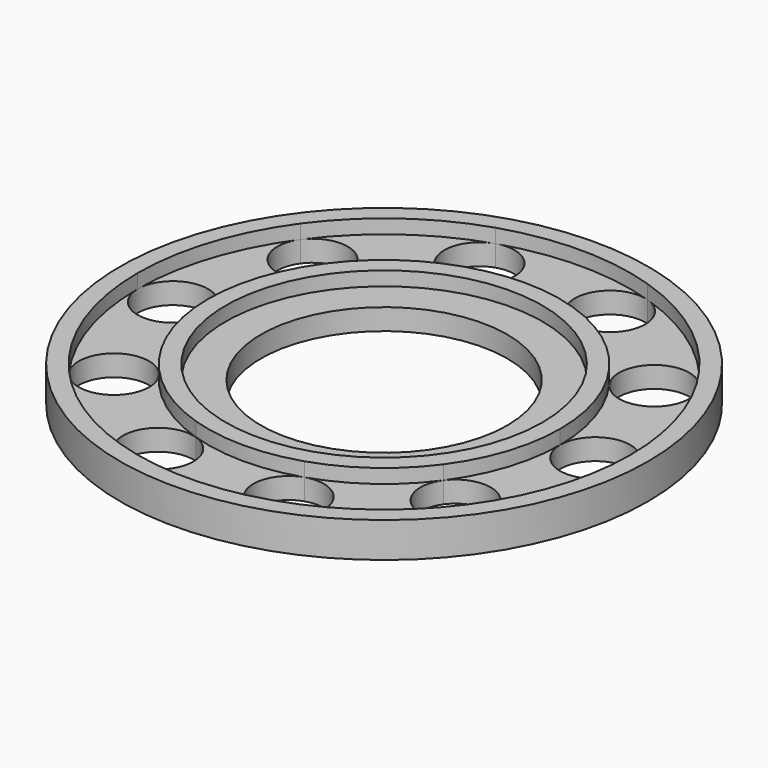
from build123d import *

# Parameters (mm, degrees)
F0_R     = 37.5
F0_R_2   = 22.5
F0_R_3   = 17.5
F1_DEPTH = 3
F2_DEPTH = 5


with BuildPart() as f1:
    # F0 (on Top) → F1 (new body)
    with BuildSketch(Plane.XY):
        Circle(F0_R)
        with BuildLine():
            ThreePointArc((28.3155948478, 20.5724837687), (33.2869780821, 10.8155947669), (35, 0))
            ThreePointArc((35, 0), (33.2869780821, -10.8155947669), (28.3155948478, -20.5724837687))
            ThreePointArc((28.3155948478, -20.5724837687), (20.5724838991, -28.3155947531), (10.8155948928, -33.2869780412))
            ThreePointArc((10.8155948928, -33.2869780412), (-9.47e-08, -35), (-10.8155950729, -33.2869779827))
            ThreePointArc((-10.8155950729, -33.2869779827), (-20.572483954, -28.3155947132), (-28.3155948162, -20.5724838122))
            ThreePointArc((-28.3155948162, -20.5724838122), (-33.2869780844, -10.8155947599), (-35, 6.87e-08))
            ThreePointArc((-35, 6.87e-08), (-33.286978055, 10.8155948504), (-28.3155947851, 20.572483855))
            ThreePointArc((-28.3155947851, 20.572483855), (-20.572483856, 28.3155947844), (-10.8155948928, 33.2869780412))
            ThreePointArc((-10.8155948928, 33.2869780412), (-5.37e-08, 35), (10.8155947907, 33.2869780744))
            ThreePointArc((10.8155947907, 33.2869780744), (20.5724838557, 28.3155947846), (28.3155948478, 20.5724837687))
        make_face(mode=Mode.SUBTRACT)
        with BuildLine():
            ThreePointArc((20.225424834, -14.6946313422), (23.7764129007, -7.7254248799), (25, 0))
            ThreePointArc((25, 0), (23.7764129114, 7.725424847), (20.2254248747, 14.6946312863))
            ThreePointArc((20.2254248747, 14.6946312863), (14.6946312563, 20.2254248964), (7.7254247148, 23.7764129544))
            ThreePointArc((7.7254247148, 23.7764129544), (-1.398e-07, 25), (-7.7254249808, 23.7764128679))
            ThreePointArc((-7.7254249808, 23.7764128679), (-14.6946313415, 20.2254248345), (-20.225424834, 14.6946313422))
            ThreePointArc((-20.225424834, 14.6946313422), (-23.7764129007, 7.7254248799), (-25, 0))
            ThreePointArc((-25, 0), (-23.7764129337, -7.7254247782), (-20.2254249597, -14.6946311693))
            ThreePointArc((-20.2254249597, -14.6946311693), (-14.694631428, -20.2254247717), (-7.7254249808, -23.7764128679))
            ThreePointArc((-7.7254249808, -23.7764128679), (1.09e-08, -25), (7.7254250015, -23.7764128612))
            ThreePointArc((7.7254250015, -23.7764128612), (14.6946313503, -20.2254248281), (20.225424834, -14.6946313422))
        make_face()
        Circle(F0_R_2, mode=Mode.SUBTRACT)
        Circle(F0_R_2)
        Circle(F0_R_3, mode=Mode.SUBTRACT)
        with BuildLine():
            ThreePointArc((10.8155948928, -33.2869780412), (4.5152272412, -30.0767804345), (7.7254250015, -23.7764128612))
            ThreePointArc((7.7254250015, -23.7764128612), (1.09e-08, -25), (-7.7254249808, -23.7764128679))
            ThreePointArc((-7.7254249808, -23.7764128679), (-5.2254248969, -25.5927691757), (-4.2705098312, -28.5316954889))
            ThreePointArc((-4.2705098312, -28.5316954889), (-6.3315836845, -32.5767805441), (-10.8155950729, -33.2869779827))
            ThreePointArc((-10.8155950729, -33.2869779827), (-9.47e-08, -35), (10.8155948928, -33.2869780412))
        make_face()
        with BuildLine():
            ThreePointArc((28.3155948478, -20.5724837687), (21.331583618, -21.6786425757), (20.225424834, -14.6946313422))
            ThreePointArc((20.225424834, -14.6946313422), (14.6946313503, -20.2254248281), (7.7254250015, -23.7764128612))
            ThreePointArc((7.7254250015, -23.7764128612), (12.2094361532, -24.4866105609), (14.2705098312, -28.5316954889))
            ThreePointArc((14.2705098312, -28.5316954889), (13.3155948308, -31.4706217122), (10.8155948928, -33.2869780412))
            ThreePointArc((10.8155948928, -33.2869780412), (20.5724838991, -28.3155947531), (28.3155948478, -20.5724837687))
        make_face()
        with BuildLine():
            ThreePointArc((35, 0), (30, -5), (25, 0))
            ThreePointArc((25, 0), (23.7764129007, -7.7254248799), (20.225424834, -14.6946313422))
            ThreePointArc((20.225424834, -14.6946313422), (25.8155947826, -12.8782749806), (29.2705098312, -17.6335575688))
            ThreePointArc((29.2705098312, -17.6335575688), (29.0257924245, -19.1786425045), (28.3155948478, -20.5724837687))
            ThreePointArc((28.3155948478, -20.5724837687), (33.2869780821, -10.8155947669), (35, 0))
        make_face()
        with BuildLine():
            ThreePointArc((20.2254248747, 14.6946312863), (23.7764129114, 7.725424847), (25, 0))
            ThreePointArc((25, 0), (30, 5), (35, 0))
            ThreePointArc((35, 0), (33.2869780821, 10.8155947669), (28.3155948478, 20.5724837687))
            ThreePointArc((28.3155948478, 20.5724837687), (29.0257924245, 19.1786425045), (29.2705098312, 17.6335575688))
            ThreePointArc((29.2705098312, 17.6335575688), (25.8155948155, 12.8782749913), (20.2254248747, 14.6946312863))
        make_face()
        with BuildLine():
            ThreePointArc((7.7254247148, 23.7764129544), (14.6946312563, 20.2254248964), (20.2254248747, 14.6946312863))
            ThreePointArc((20.2254248747, 14.6946312863), (21.33158359, 21.6786425554), (28.3155948478, 20.5724837687))
            ThreePointArc((28.3155948478, 20.5724837687), (20.5724838557, 28.3155947846), (10.8155947907, 33.2869780744))
            ThreePointArc((10.8155947907, 33.2869780744), (13.3155947993, 31.4706217556), (14.2705098312, 28.5316954889))
            ThreePointArc((14.2705098312, 28.5316954889), (12.2094360312, 24.4866104723), (7.7254247148, 23.7764129544))
        make_face()
        with BuildLine():
            ThreePointArc((-7.7254249808, 23.7764128679), (-1.398e-07, 25), (7.7254247148, 23.7764129544))
            ThreePointArc((7.7254247148, 23.7764129544), (4.5152272712, 30.0767805268), (10.8155947907, 33.2869780744))
            ThreePointArc((10.8155947907, 33.2869780744), (-5.37e-08, 35), (-10.8155948928, 33.2869780412))
            ThreePointArc((-10.8155948928, 33.2869780412), (-6.3315836079, 32.5767804884), (-4.2705098312, 28.5316954889))
            ThreePointArc((-4.2705098312, 28.5316954889), (-5.2254248969, 25.5927691758), (-7.7254249808, 23.7764128679))
        make_face()
        with BuildLine():
            ThreePointArc((-20.225424834, 14.6946313422), (-14.6946313415, 20.2254248345), (-7.7254249808, 23.7764128679))
            ThreePointArc((-7.7254249808, 23.7764128679), (-14.0257924179, 26.9866105329), (-10.8155948928, 33.2869780412))
            ThreePointArc((-10.8155948928, 33.2869780412), (-20.572483856, 28.3155947844), (-28.3155947851, 20.572483855))
            ThreePointArc((-28.3155947851, 20.572483855), (-22.7254248448, 22.3888401455), (-19.2705098312, 17.6335575688))
            ThreePointArc((-19.2705098312, 17.6335575688), (-19.5152272431, 16.0884726174), (-20.225424834, 14.6946313422))
        make_face()
        with BuildLine():
            ThreePointArc((-25, 0), (-23.7764129007, 7.7254248799), (-20.225424834, 14.6946313422))
            ThreePointArc((-20.225424834, 14.6946313422), (-27.2094360876, 13.5884725932), (-28.3155947851, 20.572483855))
            ThreePointArc((-28.3155947851, 20.572483855), (-33.286978055, 10.8155948504), (-35, 6.87e-08))
            ThreePointArc((-35, 6.87e-08), (-29.9999999656, 5), (-25, 0))
        make_face()
        with BuildLine():
            ThreePointArc((-10.8155950729, -33.2869779827), (-14.0257923886, -26.9866104428), (-7.7254249808, -23.7764128679))
            ThreePointArc((-7.7254249808, -23.7764128679), (-14.694631428, -20.2254247717), (-20.2254249597, -14.6946311693))
            ThreePointArc((-20.2254249597, -14.6946311693), (-19.5152272761, -16.0884725158), (-19.2705098312, -17.6335575688))
            ThreePointArc((-19.2705098312, -17.6335575688), (-22.72542487, -22.3888401537), (-28.3155948162, -20.5724838122))
            ThreePointArc((-28.3155948162, -20.5724838122), (-20.572483954, -28.3155947132), (-10.8155950729, -33.2869779827))
        make_face()
        with BuildLine():
            ThreePointArc((-28.3155948162, -20.5724838122), (-27.2094361527, -13.5884726405), (-20.2254249597, -14.6946311693))
            ThreePointArc((-20.2254249597, -14.6946311693), (-23.7764129337, -7.7254247782), (-25, 0))
            ThreePointArc((-25, 0), (-30.0000000344, -5), (-35, 6.87e-08))
            ThreePointArc((-35, 6.87e-08), (-33.2869780844, -10.8155947599), (-28.3155948162, -20.5724838122))
        make_face()
    extrude(amount=F1_DEPTH)

    # F0 (on Top) → F2 (join)
    with BuildSketch(Plane.XY):
        Circle(F0_R)
        with BuildLine():
            ThreePointArc((28.3155948478, 20.5724837687), (33.2869780821, 10.8155947669), (35, 0))
            ThreePointArc((35, 0), (33.2869780821, -10.8155947669), (28.3155948478, -20.5724837687))
            ThreePointArc((28.3155948478, -20.5724837687), (20.5724838991, -28.3155947531), (10.8155948928, -33.2869780412))
            ThreePointArc((10.8155948928, -33.2869780412), (-9.47e-08, -35), (-10.8155950729, -33.2869779827))
            ThreePointArc((-10.8155950729, -33.2869779827), (-20.572483954, -28.3155947132), (-28.3155948162, -20.5724838122))
            ThreePointArc((-28.3155948162, -20.5724838122), (-33.2869780844, -10.8155947599), (-35, 6.87e-08))
            ThreePointArc((-35, 6.87e-08), (-33.286978055, 10.8155948504), (-28.3155947851, 20.572483855))
            ThreePointArc((-28.3155947851, 20.572483855), (-20.572483856, 28.3155947844), (-10.8155948928, 33.2869780412))
            ThreePointArc((-10.8155948928, 33.2869780412), (-5.37e-08, 35), (10.8155947907, 33.2869780744))
            ThreePointArc((10.8155947907, 33.2869780744), (20.5724838557, 28.3155947846), (28.3155948478, 20.5724837687))
        make_face(mode=Mode.SUBTRACT)
        with BuildLine():
            ThreePointArc((20.225424834, -14.6946313422), (23.7764129007, -7.7254248799), (25, 0))
            ThreePointArc((25, 0), (23.7764129114, 7.725424847), (20.2254248747, 14.6946312863))
            ThreePointArc((20.2254248747, 14.6946312863), (14.6946312563, 20.2254248964), (7.7254247148, 23.7764129544))
            ThreePointArc((7.7254247148, 23.7764129544), (-1.398e-07, 25), (-7.7254249808, 23.7764128679))
            ThreePointArc((-7.7254249808, 23.7764128679), (-14.6946313415, 20.2254248345), (-20.225424834, 14.6946313422))
            ThreePointArc((-20.225424834, 14.6946313422), (-23.7764129007, 7.7254248799), (-25, 0))
            ThreePointArc((-25, 0), (-23.7764129337, -7.7254247782), (-20.2254249597, -14.6946311693))
            ThreePointArc((-20.2254249597, -14.6946311693), (-14.694631428, -20.2254247717), (-7.7254249808, -23.7764128679))
            ThreePointArc((-7.7254249808, -23.7764128679), (1.09e-08, -25), (7.7254250015, -23.7764128612))
            ThreePointArc((7.7254250015, -23.7764128612), (14.6946313503, -20.2254248281), (20.225424834, -14.6946313422))
        make_face()
        Circle(F0_R_2, mode=Mode.SUBTRACT)
    extrude(amount=F2_DEPTH)


solid = f1.part
